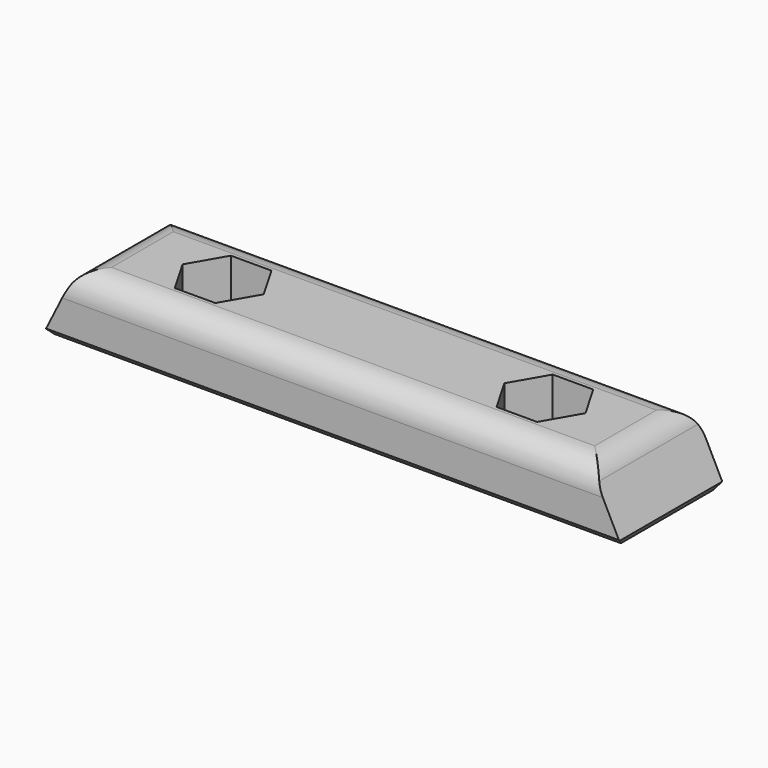
from build123d import *

# Parameters (mm, degrees)
PAD_DEPTH       = 5
POCKET_DEPTH    = 4
SKETCH002_R     = 1.6
POCKET001_DEPTH = 5
FILLET_R        = 2
CHAMFER_SIZE    = 0.5


with BuildPart() as part:
    # Sketch → Pad (new body, symmetric)
    with BuildSketch(Plane.XZ):
        Polygon((-22.5, 0), (-20, 5), (20, 5), (22.5, 0), align=None)
    extrude(amount=PAD_DEPTH, both=True)

    # Sketch001 → Pocket (cut)
    with BuildSketch(Plane(origin=(0, 0, 5), x_dir=(-1, 0, 0), z_dir=(0, 0, 1))):
        Polygon((-14.075, 2.72798), (-10.925, 2.72798), (-9.35, 0), (-10.925, -2.72798), (-14.075, -2.72798), (-15.65, 0), align=None)
        Polygon((10.925, 2.72798), (14.075, 2.72798), (15.65, 0), (14.075, -2.72798), (10.925, -2.72798), (9.35, 0), align=None)
    extrude(amount=-POCKET_DEPTH, mode=Mode.SUBTRACT)

    # Sketch002 → Pocket001 (cut)
    with BuildSketch(Plane(origin=(0, 0, 0), x_dir=(1, 0, 0), z_dir=(0, 0, -1))):
        with Locations((-12.5, 0)):
            Circle(SKETCH002_R)
        with Locations((12.5, 0)):
            Circle(SKETCH002_R)
    extrude(amount=-POCKET001_DEPTH, mode=Mode.SUBTRACT)

    # Fillet
    fillet_edges = [part.edges().sort_by_distance(p)[0] for p in [
        (20, 0, 5),
        (-20, 0, 5),
        (0, -5, 5),
        (0, 5, 5),
    ]]
    fillet(fillet_edges, radius=FILLET_R)

    # Chamfer
    chamfer_edges = [part.edges().sort_by_distance(p)[0] for p in [
        (-14.1, 0, 0),
        (10.9, 0, 0),
        (22.5, 0, 0),
        (0, 5, 0),
        (0, -5, 0),
        (-22.5, 0, 0),
    ]]
    chamfer(chamfer_edges, length=CHAMFER_SIZE)


solid = part.part
